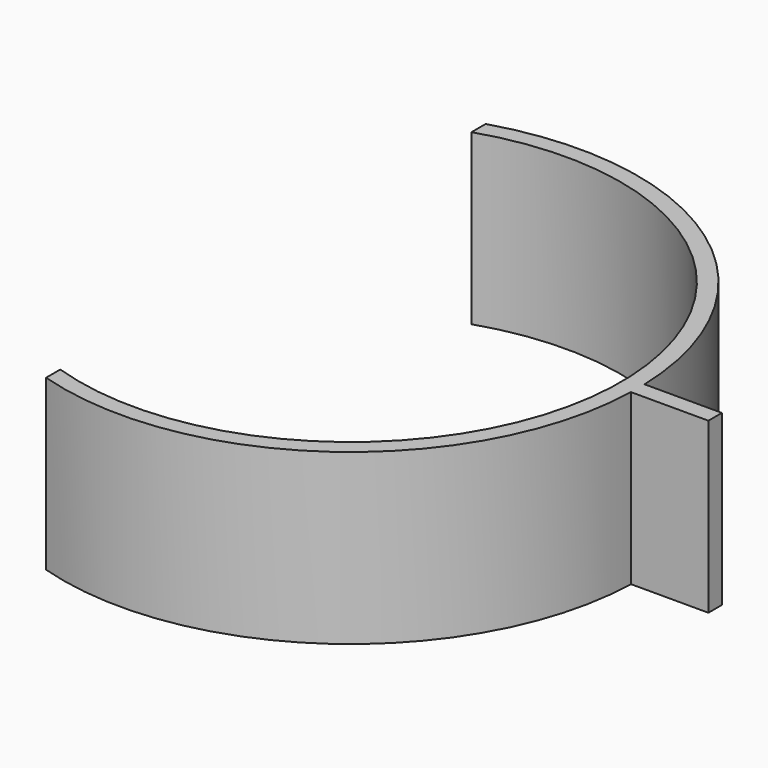
from build123d import *

# Parameters (mm, degrees)
F1_DEPTH = 20


with BuildPart() as f1:
    # F0 (on Top) → F1 (new body)
    with BuildSketch(Plane.XY):
        with BuildLine():
            ThreePointArc((-10, 30.397368), (32, 0), (-10, -30.397368))
            Line((-10, -30.397368), (-10, -32.496154))
            ThreePointArc((-10, -32.496154), (19.794582, -27.643707), (33.985291, -1))
            Line((33.985291, -1), (43.141052, -1))
            Line((43.141052, -1), (43.141052, 1))
            Line((43.141052, 1), (33.985291, 1))
            ThreePointArc((33.985291, 1), (19.794582, 27.643707), (-10, 32.496154))
            Line((-10, 32.496154), (-10, 30.397368))
        make_face()
    extrude(amount=F1_DEPTH)


solid = f1.part
